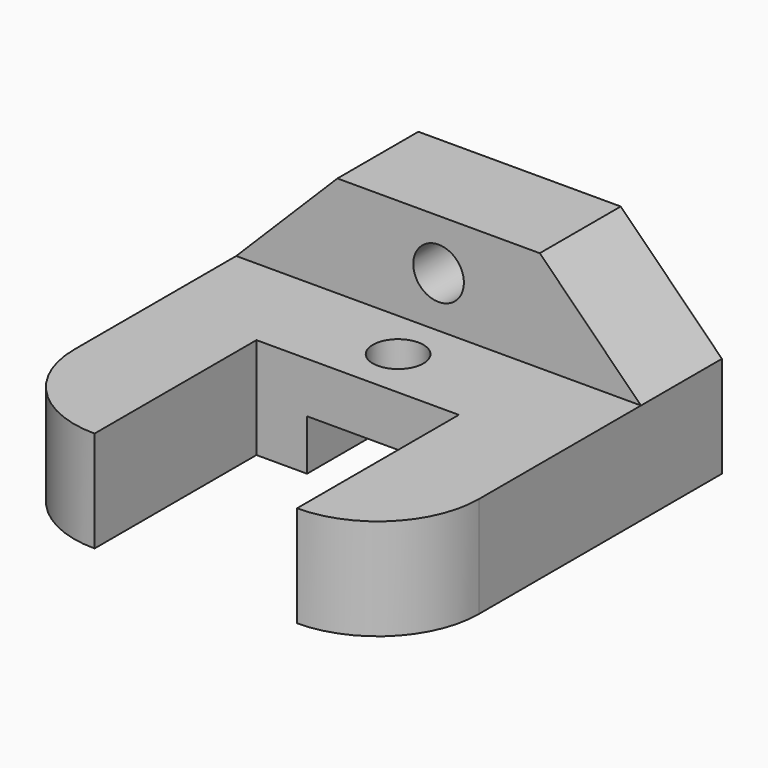
from build123d import *

# Parameters (mm, degrees)
F1_R     = 12.7
F1_W     = 50.8
F1_H     = 50.8
F1_W_2   = 101.6
F2_DEPTH = 50.8
F0_W     = 101.6
F0_H     = 50.8
F0_R     = 12.7
F3_DEPTH = 101.6
F4_DEPTH = 50.8
F0_W_2   = 50.8
F0_H_2   = 25.4
F5_DEPTH = 178.816


with BuildPart() as f2:
    # F1 (on Top) → F2 (new body)
    with BuildSketch(Plane.XY):
        with BuildLine():
            Line((-50.8, 50.8), (-101.6, 50.8))
            Line((-101.6, 50.8), (-101.6, -50.8))
            ThreePointArc((-101.6, -50.8), (-86.721024, -86.721024), (-50.8, -101.6))
            Line((-50.8, -101.6), (-50.8, 0))
            Line((-50.8, 0), (50.8, 0))
            Line((50.8, 0), (50.8, -50.8))
            Line((50.8, -50.8), (50.8, -101.6))
            ThreePointArc((50.8, -101.6), (86.721024, -86.721024), (101.6, -50.8))
            Line((101.6, -50.8), (101.6, 50.8))
            Line((101.6, 50.8), (50.8, 50.8))
            Line((50.8, 50.8), (-50.8, 50.8))
        make_face()
        with Locations((0, 25.4)):
            Circle(F1_R, mode=Mode.SUBTRACT)
        with Locations((-76.2, 76.2)):
            Rectangle(F1_W, F1_H)
        with Locations((0, 76.2)):
            Rectangle(F1_W_2, F1_H)
        with Locations((76.2, 76.2)):
            Rectangle(F1_W, F1_H)
    extrude(amount=-F2_DEPTH)

    # F0 (on Front) → F3 (join)
    with BuildSketch(Plane.XZ):
        Polygon((-50.8, 50.8), (-101.6, 0), (-50.8, 0), align=None)
        with Locations((0, 25.4)):
            Rectangle(F0_W, F0_H)
        with Locations((0, 25.4)):
            Circle(F0_R, mode=Mode.SUBTRACT)
        Polygon((50.8, 50.8), (50.8, 0), (101.6, 0), align=None)
    extrude(amount=-F3_DEPTH)

    # F0 (on Front) → F4 (cut)
    with BuildSketch(Plane.XZ):
        with Locations((0, 25.4)):
            Rectangle(F0_W, F0_H)
        with Locations((0, 25.4)):
            Circle(F0_R, mode=Mode.SUBTRACT)
        Polygon((-50.8, 50.8), (-101.6, 0), (-50.8, 0), align=None)
        Polygon((50.8, 50.8), (50.8, 0), (101.6, 0), align=None)
    extrude(amount=-F4_DEPTH, mode=Mode.SUBTRACT)

    # F0 (on Front) → F5 (cut)
    with BuildSketch(Plane.XZ):
        with Locations((0, -38.1)):
            Rectangle(F0_W_2, F0_H_2)
    extrude(amount=-F5_DEPTH, mode=Mode.SUBTRACT)


solid = f2.part
